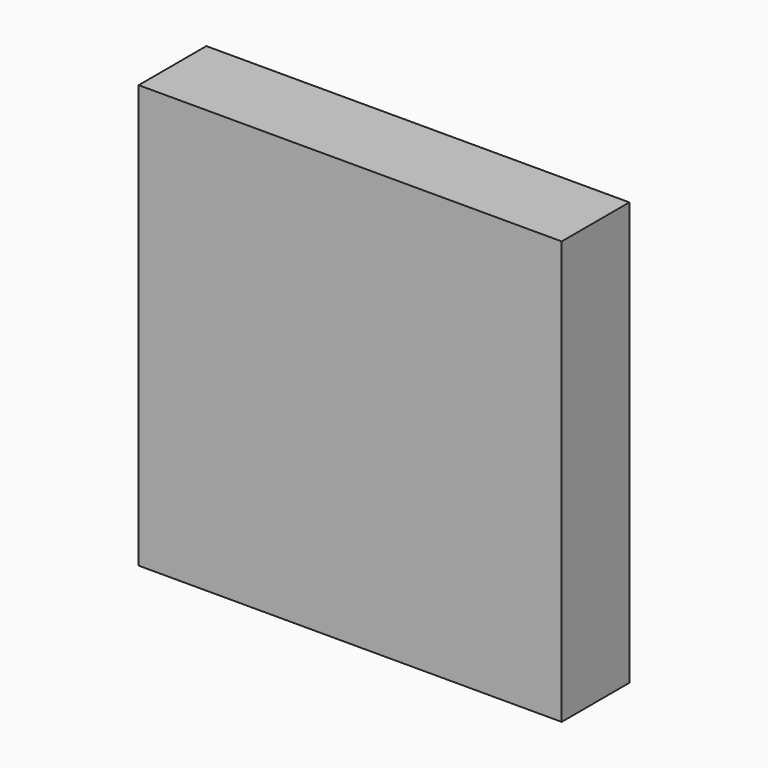
from build123d import *

# Parameters (mm, degrees)
F0_W     = 127
F0_H     = 127
F1_DEPTH = 25.4


with BuildPart() as f1:
    # F0 (on Front) → F1 (new body)
    with BuildSketch(Plane.XZ):
        Rectangle(F0_W, F0_H)
    extrude(amount=F1_DEPTH)

    # F2 (on Top) → F3 (revolve, cut)
    with BuildSketch(Plane.XY):
        with BuildLine():
            ThreePointArc((0, -16.51), (38.615101, -0.515101), (54.61, 38.1))
            ThreePointArc((54.61, 38.1), (38.615101, 76.715101), (0, 92.71))
            Line((0, 92.71), (0, -16.51))
        make_face()
    revolve(axis=Axis((0, 38.1, 0), (0, 1, 0)), mode=Mode.SUBTRACT)


solid = f1.part
